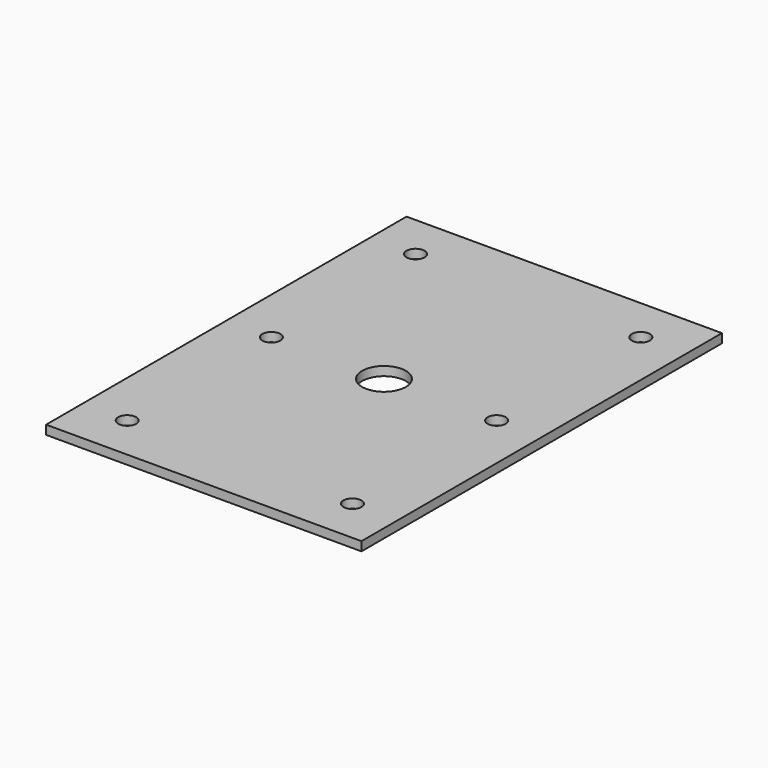
from build123d import *

# Parameters (mm, degrees)
F0_W     = 70
F0_H     = 100
F0_R     = 2
F1_DEPTH = 2


with BuildPart() as f1:
    # F0 (on Top) → F1 (new body)
    with BuildSketch(Plane.XY):
        Rectangle(F0_W, F0_H)
        with Locations((-25, -40)):
            Circle(F0_R, mode=Mode.SUBTRACT)
        with Locations((25, -40)):
            Circle(F0_R, mode=Mode.SUBTRACT)
        with Locations((-25, 0)):
            Circle(F0_R, mode=Mode.SUBTRACT)
        with Locations((-25, 40)):
            Circle(F0_R, mode=Mode.SUBTRACT)
        with BuildLine():
            ThreePointArc((-4.85, 0), (0, 4.85), (4.85, 0))
            ThreePointArc((4.85, 0), (0, -4.85), (-4.85, 0))
        make_face(mode=Mode.SUBTRACT)
        with Locations((25, 0)):
            Circle(F0_R, mode=Mode.SUBTRACT)
        with Locations((25, 40)):
            Circle(F0_R, mode=Mode.SUBTRACT)
    extrude(amount=F1_DEPTH)


solid = f1.part
